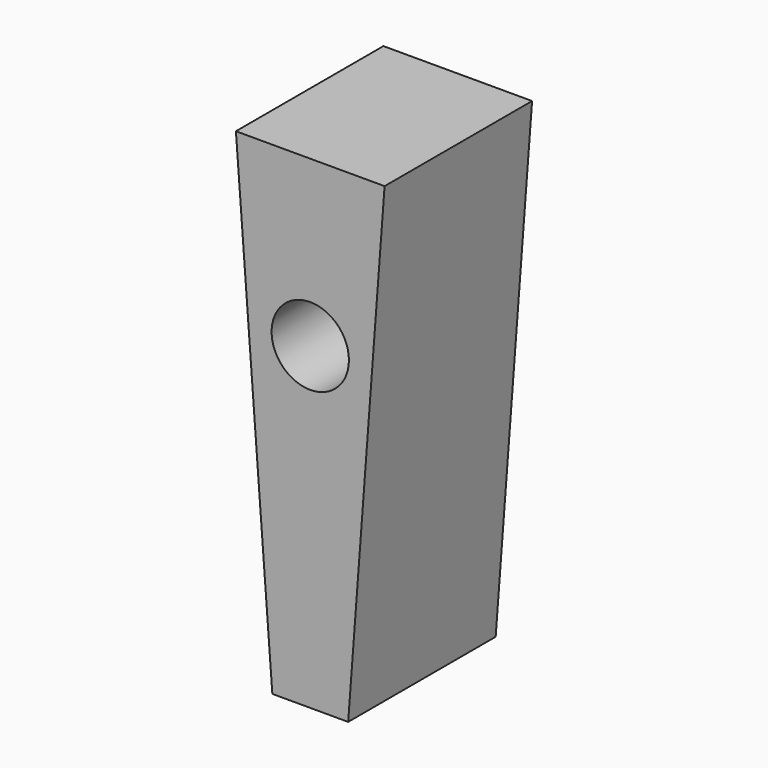
from build123d import *

# Parameters (mm, degrees)
F0_W     = 25
F0_H     = 31
F1_DEPTH = 86.3
F2_R     = 6.5
F3_DEPTH = 31.5
F5_DEPTH = 31.001
F6_W     = 20
F6_H     = 5
F7_DEPTH = 50


with BuildPart() as f1:
    # F0 (on Top) → F1 (new body)
    with BuildSketch(Plane.XY):
        Rectangle(F0_W, F0_H)
    extrude(amount=F1_DEPTH)

    # F2 (on Front) → F3 (cut, symmetric)
    with BuildSketch(Plane.XZ):
        with Locations((0, 58.577)):
            Circle(F2_R)
    extrude(amount=F3_DEPTH, both=True, mode=Mode.SUBTRACT)

    # F4 (on face) → F5 (cut, through all)
    with BuildSketch(Plane(origin=(0, 15.5, 0), x_dir=(-1, 0, 0), z_dir=(0, 1, 0))):
        Polygon((12.5, 0), (12.5, 86.3), (6, 0), align=None)
        Polygon((-6, 0), (-12.5, 86.3), (-12.5, 0), align=None)
    extrude(amount=-F5_DEPTH, mode=Mode.SUBTRACT)

    # F6 (on Front) → F7 (cut, symmetric)
    with BuildSketch(Plane.XZ):
        with Locations((0, 2.5)):
            Rectangle(F6_W, F6_H)
    extrude(amount=F7_DEPTH, both=True, mode=Mode.SUBTRACT)


solid = f1.part
